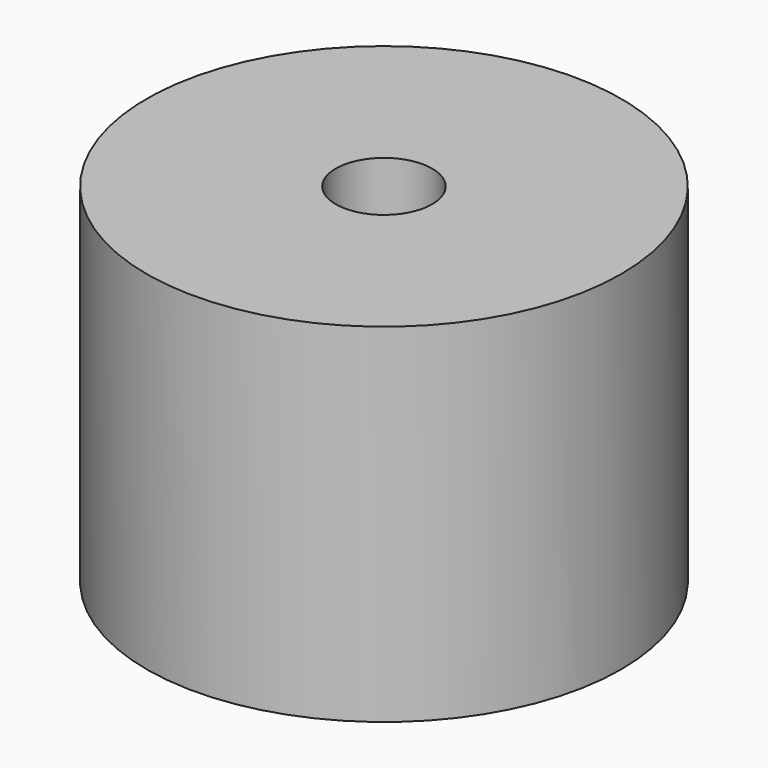
from build123d import *

# Parameters (mm, degrees)
SKETCH_R   = 15
SKETCH_R_2 = 3.05
PAD_DEPTH  = 22


with BuildPart() as part:
    # Sketch → Pad (new body)
    with BuildSketch(Plane.XY):
        Circle(SKETCH_R)
        Circle(SKETCH_R_2, mode=Mode.SUBTRACT)
    extrude(amount=PAD_DEPTH)


solid = part.part
